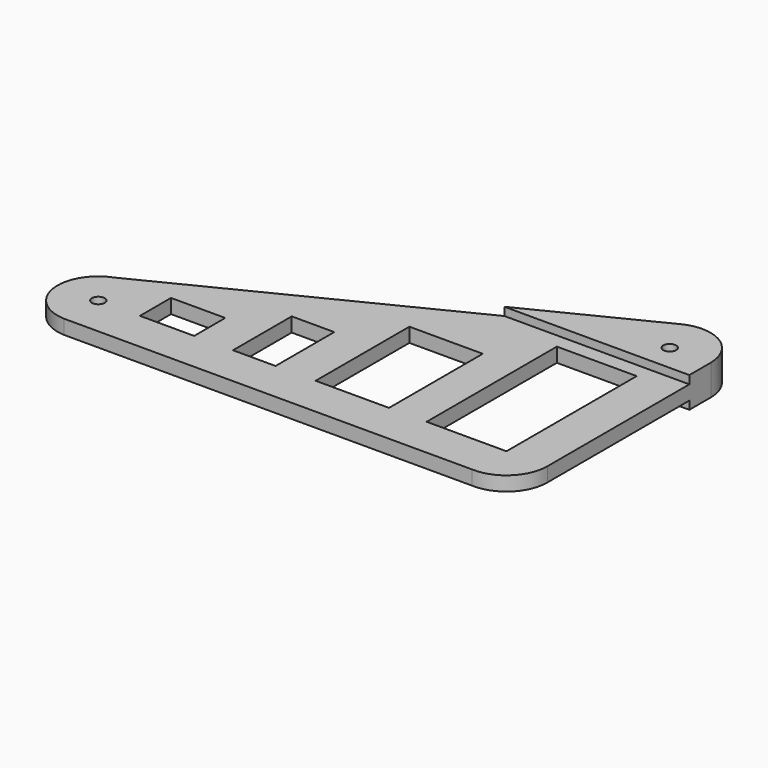
from build123d import *

# Parameters (mm, degrees)
F0_R     = 2.00025
F1_DEPTH = 9.525
F2_W     = 55.258708
F2_H     = 2.54
F2_W_2   = 16.308993
F3_DEPTH = 152.40108
F4_W     = 16.884602
F4_H     = 12.087842
F4_W_2   = 13.239063
F4_H_2   = 22.832589
F4_W_3   = 22.832591
F4_H_3   = 36.455397
F4_W_4   = 24.841385
F4_H_4   = 50.653815
F5_DEPTH = 25.4


with BuildPart() as f1:
    # F0 (on Top) → F1 (new body)
    with BuildSketch(Plane.XY):
        with BuildLine():
            Line((12.7, 0), (12.699599, 63.600882))
            ThreePointArc((12.699599, 63.600882), (6.63067, 74.33163), (-5.686228, 74.855915))
            Line((-5.686228, 74.855915), (-131.355282, 11.929858))
            ThreePointArc((-131.355282, 11.929858), (-139.554552, -1.916565), (-127.59746, -12.685939))
            Line((-127.59746, -12.685939), (-0.59746, -12.685939))
            ThreePointArc((-0.59746, -12.685939), (8.766478, -9.189063), (12.7, 0))
        make_face()
        with Locations((-127, 0)):
            Circle(F0_R, mode=Mode.SUBTRACT)
        with Locations((0, 63.5)):
            Circle(F0_R, mode=Mode.SUBTRACT)
    extrude(amount=F1_DEPTH)

    # F2 (on face) → F3 (cut, through all)
    with BuildSketch(Plane(origin=(12.7, 8e-05, 0), x_dir=(-6e-06, 1, 0), z_dir=(1, 6e-06, 0))):
        with Locations((27.629274, 8.255)):
            Rectangle(F2_W, F2_H)
        with Locations((27.629274, 1.27)):
            Rectangle(F2_W, F2_H)
        with Locations((-8.154576, 1.27)):
            Rectangle(F2_W_2, F2_H)
        with Locations((-8.154576, 8.255)):
            Rectangle(F2_W_2, F2_H)
    extrude(amount=-F3_DEPTH, mode=Mode.SUBTRACT)

    # F4 (on face) → F5 (cut)
    with BuildSketch(Plane.XY.offset(6.985)):
        with Locations((-105.618868, 6.043921)):
            Rectangle(F4_W, F4_H)
        with Locations((-78.46919, 11.416294)):
            Rectangle(F4_W_2, F4_H_2)
        with Locations((-47.961781, 18.227698)):
            Rectangle(F4_W_3, F4_H_3)
        with Locations((-12.420692, 25.326907)):
            Rectangle(F4_W_4, F4_H_4)
    extrude(amount=-F5_DEPTH, mode=Mode.SUBTRACT)


solid = f1.part
